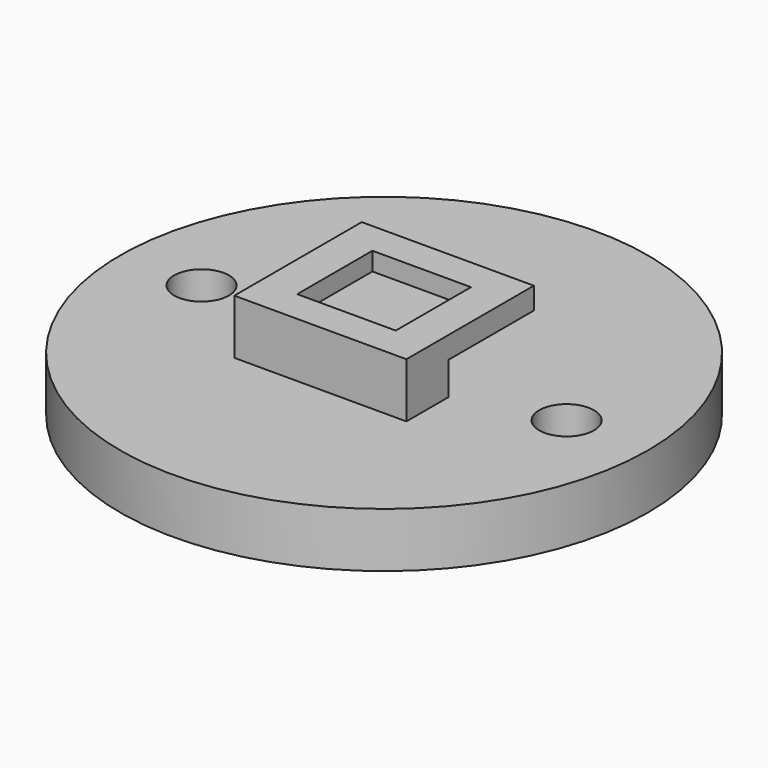
from build123d import *

# Parameters (mm, degrees)
F0_R     = 14.460691
F0_R_2   = 1.5
F1_DEPTH = 3
F2_W     = 9.428674
F2_H     = 8.726458
F2_W_2   = 5.4
F2_H_2   = 5.150138
F3_DEPTH = 3
F4_W     = 15.93314
F4_H     = 7.691861
F5_DEPTH = 1.8
F6_W     = 6.640965
F6_H     = 6.223533
F7_DEPTH = 0.2


with BuildPart() as f1:
    # F0 (on Top) → F1 (new body)
    with BuildSketch(Plane.XY):
        Circle(F0_R)
        with Locations((-10, 0)):
            Circle(F0_R_2, mode=Mode.SUBTRACT)
        with Locations((10, 0)):
            Circle(F0_R_2, mode=Mode.SUBTRACT)
    extrude(amount=F1_DEPTH)

    # F2 (on face) → F3 (join)
    with BuildSketch(Plane.XY.offset(3)):
        Rectangle(F2_W, F2_H)
        Rectangle(F2_W_2, F2_H_2, mode=Mode.SUBTRACT)
    extrude(amount=F3_DEPTH)

    # F4 (on face) → F5 (cut)
    with BuildSketch(Plane.XY.offset(3)):
        with Locations((-0.366279, 2.380814)):
            Rectangle(F4_W, F4_H)
    extrude(amount=F5_DEPTH, mode=Mode.SUBTRACT)

    # F6 (on face) → F7 (cut)
    with BuildSketch(Plane(origin=(0, 0, 4.8), x_dir=(1, 0, 0), z_dir=(0, 0, -1))):
        with Locations((-0.009842, 0.080773)):
            Rectangle(F6_W, F6_H)
    extrude(amount=-F7_DEPTH, mode=Mode.SUBTRACT)


solid = f1.part
